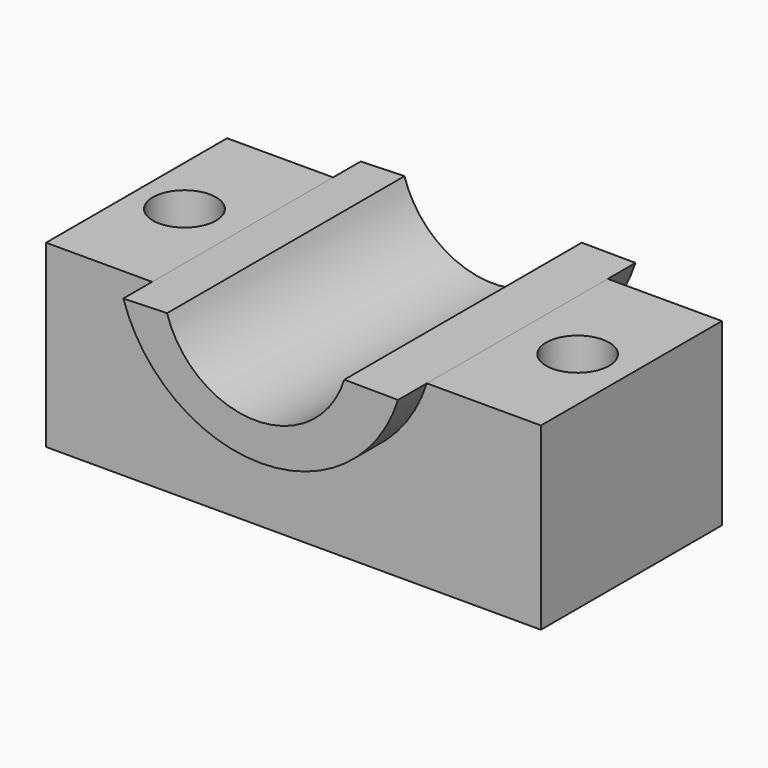
from build123d import *

# Parameters (mm, degrees)
F0_W          = 69.8839575052
F0_H          = 31.9469533861
F1_DEPTH      = 25.4
F3_DEPTH      = 31.9479533861
F5_DEPTH      = 5.08
F5_DEPTH_BACK = 36.83
F6_R          = 4.4661221371
F6_R_2        = 4.4516987215
F7_DEPTH      = 25.401


with BuildPart() as f1:
    # F0 (on Top) → F1 (new body)
    with BuildSketch(Plane.XY):
        with Locations((1.9966848195, 0.1426208764)):
            Rectangle(F0_W, F0_H)
    extrude(amount=F1_DEPTH)

    # F2 (on face) → F3 (cut, through all)
    with BuildSketch(Plane.XZ.offset(15.8308558166)):
        with BuildLine():
            Line((20.8225678653, 25.4), (-17.9701615125, 25.4))
            ThreePointArc((-17.9701615125, 25.4), (1.4262031764, 11.2350146431), (20.8225678653, 25.4))
        make_face()
    extrude(amount=-F3_DEPTH, mode=Mode.SUBTRACT)

    # F4 (on face) → F5 (join, two sides)
    with BuildSketch(Plane.XZ.offset(15.8308558166)) as f5_sk:
        with BuildLine():
            ThreePointArc((13.2335545495, 25.4485774785), (0.671350591, 16.2987194564), (-11.7973163724, 25.5756378174))
            Line((-11.7973163724, 25.5756378174), (-17.9701615125, 25.4))
            ThreePointArc((-17.9701615125, 25.4), (1.4262031764, 11.2350146431), (20.8225678653, 25.4))
            Line((20.8225678653, 25.4), (13.2335545495, 25.4485774785))
        make_face()
    extrude(amount=F5_DEPTH)
    extrude(f5_sk.sketch, amount=-F5_DEPTH_BACK)

    # F6 (on face) → F7 (cut, through all)
    with BuildSketch(Plane.XY.offset(25.4)):
        with Locations((-26.0657016188, 0)):
            Circle(F6_R)
        with Locations((29.4586159289, 0)):
            Circle(F6_R_2)
    extrude(amount=-F7_DEPTH, mode=Mode.SUBTRACT)


solid = f1.part
